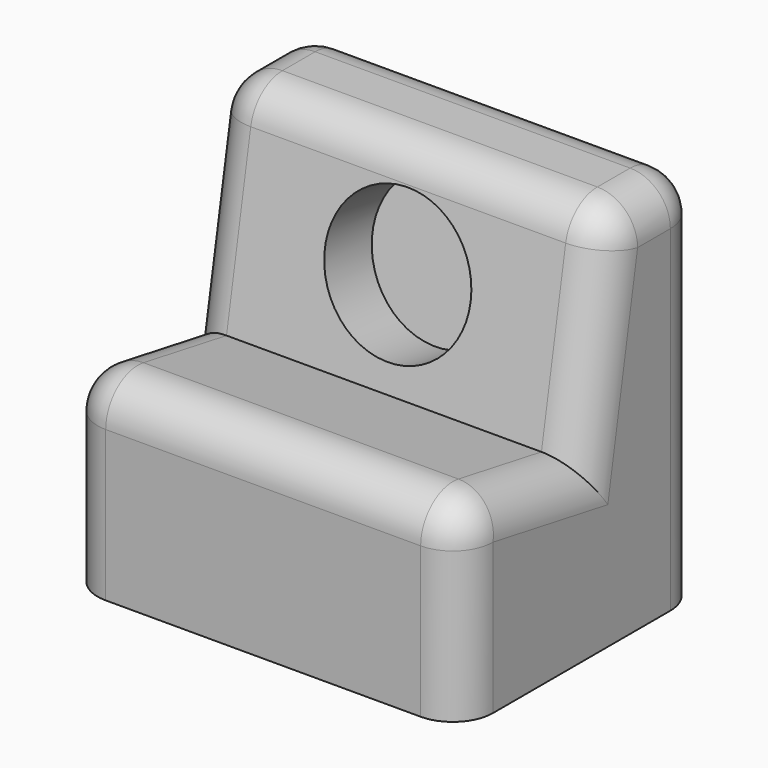
from build123d import *

# Parameters (mm, degrees)
F0_W     = 62.4118931592
F0_H     = 47.6785954088
F1_DEPTH = 59.436
F3_DEPTH = 62.4128931592
F4_R     = 11.5061278917
F5_DEPTH = 9.525
F6_R     = 6.35


with BuildPart() as f1:
    # F0 (on Top) → F1 (new body)
    with BuildSketch(Plane.XY):
        Rectangle(F0_W, F0_H)
    extrude(amount=F1_DEPTH)

    # F2 (on face) → F3 (cut, through all)
    with BuildSketch(Plane(origin=(-31.2059465796, 0, 0), x_dir=(0, -1, 0), z_dir=(-1, 0, 0))):
        Polygon((23.8392977044, 59.436), (-5.6998856858, 59.436), (0, 27.1103419363), (23.8392977044, 31.3138533228), align=None)
    extrude(amount=-F3_DEPTH, mode=Mode.SUBTRACT)

    # F4 (on face) → F5 (cut)
    with BuildSketch(Plane(origin=(0, -4.6361415173, 0.8174768359), x_dir=(1, 0, 0), z_dir=(0, -0.984807753, 0.1736481777))):
        with Locations((0, 42.3641316593)):
            Circle(F4_R)
    extrude(amount=-F5_DEPTH, mode=Mode.SUBTRACT)

    # F6
    f6_edges = [f1.edges().sort_by_distance(p)[0] for p in [
        (0, 23.839298, 59.436),
        (31.205947, 14.769592, 59.436),
        (0, 5.699886, 59.436),
        (-31.205947, 14.769592, 59.436),
        (-31.205947, -23.839298, 15.656927),
        (31.205947, -23.839298, 15.656927),
        (0, -23.839298, 31.313853),
        (-31.205947, -11.919649, 29.212098),
        (-31.205947, 2.849943, 43.273171),
        (31.205947, -11.919649, 29.212098),
        (31.205947, 2.849943, 43.273171),
        (31.205947, 23.839298, 29.718),
        (-31.205947, 23.839298, 29.718),
    ]]
    fillet(f6_edges, radius=F6_R)


solid = f1.part
